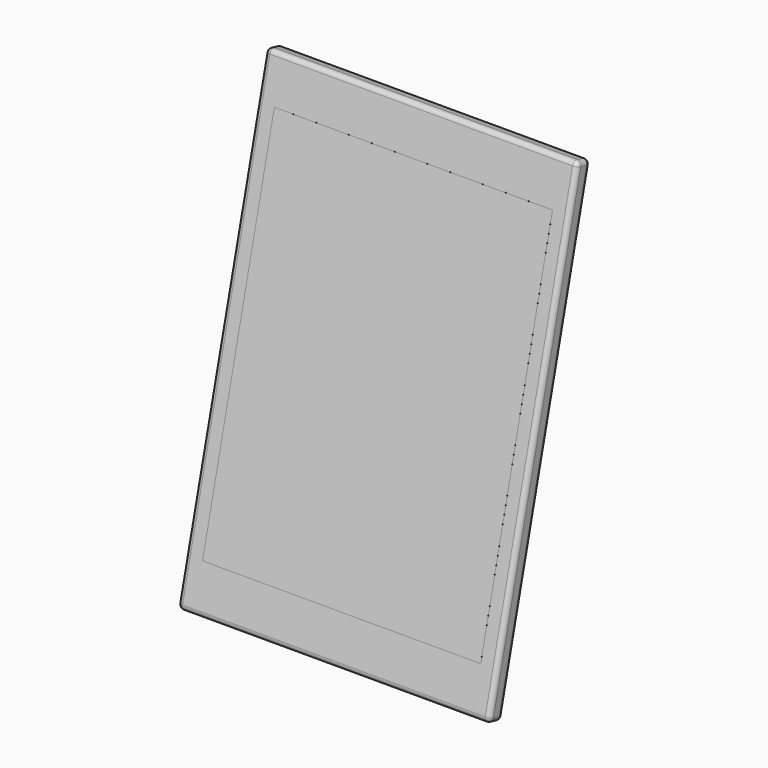
from build123d import *

# Parameters (mm, degrees)
F1_DEPTH = 134.7
F3_R     = 2
F4_DEPTH = 0.01


with BuildPart() as f1:
    # F0 (on Right) → F1 (new body)
    with BuildSketch(Plane.YZ):
        Polygon((-6.508532, 3.671378), (0.480546, 1.941411), (48.535184, 196.082472), (41.546106, 197.812439), align=None)
    extrude(amount=F1_DEPTH)

    # F3
    f3_edges = [f1.edges().sort_by_distance(p)[0] for p in [
        (0, 17.518787, 100.741908),
        (0, 24.507865, 99.011941),
        (67.35, 41.546106, 197.812439),
        (0, 45.040645, 196.947456),
        (67.35, 48.535184, 196.082472),
        (134.7, 45.040645, 196.947456),
        (134.7, 24.507865, 99.011941),
        (134.7, 17.518787, 100.741908),
        (134.7, -3.013993, 2.806394),
        (67.35, -6.508532, 3.671378),
        (67.35, 0.480546, 1.941411),
        (0, -3.013993, 2.806394),
    ]]
    fillet(f3_edges, radius=F3_R)


with BuildPart() as f4:
    # F2 (on face) → F4 (new body)
    with BuildSketch(Plane(origin=(0, -6.989078, 1.729967), x_dir=(1, 0, 0), z_dir=(0, -0.970705, 0.240273))):
        Polygon((7.3, 182.7), (7.3, 102), (7.3, 21.3), (67.35, 21.3), (127.4, 21.3), (127.4, 102), (127.4, 182.7), (67.35, 182.7), align=None)
    extrude(amount=F4_DEPTH)


solid = Compound([f1.part, f4.part])
